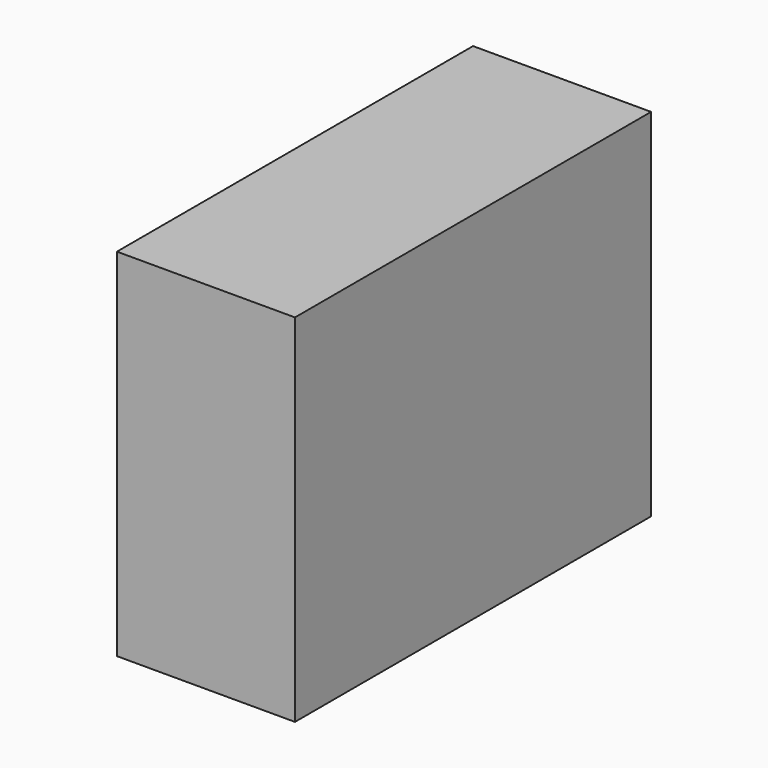
from build123d import *

# Parameters (mm, degrees)
F0_W          = 25.4
F0_H          = 50.8
F1_DEPTH      = 63.5
F2_W          = 25.4
F2_H          = 25.4
F3_DEPTH      = 25.146
F3_DEPTH_BACK = 12.7


with BuildPart() as f1:
    # F0 (on Front) → F1 (new body)
    with BuildSketch(Plane.XZ):
        with Locations((22.603006, -7.29564)):
            Rectangle(F0_W, F0_H)
    extrude(amount=F1_DEPTH)

    # F2 (on Right) → F3 (join, two sides)
    with BuildSketch(Plane.YZ) as f3_sk:
        with Locations((-12.7, -19.052493)):
            Rectangle(F2_W, F2_H)
    extrude(amount=F3_DEPTH)
    extrude(f3_sk.sketch, amount=-F3_DEPTH_BACK)


solid = f1.part
